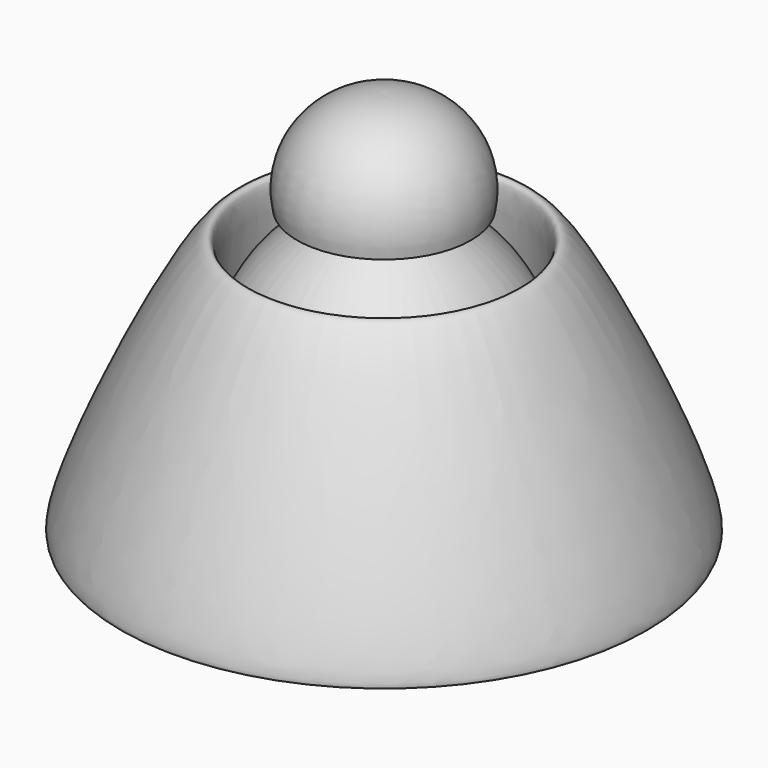
from build123d import *


with BuildPart() as f1:
    # F0 (on Front) → F1 (revolve)
    with BuildSketch(Plane.XZ):
        with BuildLine():
            ThreePointArc((6.9942506962, 68.7768086791), (10.7495988615, 61.5285137608), (17.1677079052, 56.4838834107))
            ThreePointArc((17.1677079052, 56.4838834107), (13.4650457136, 70.5907804083), (0, 76.1949568987))
            Line((0, 76.1949568987), (0, 0))
            Line((0, 0), (51.2911789119, 0))
            Line((51.2911789119, 0), (51.9270189106, 0))
            add(Edge.make_bspline(
                [(6.9942506962, 68.7768086791), (4.7976490485, 66.8852085739), (-1.4622309124, 61.4945226455), (22.5375060592, 50.4348407583), (29.137466164, 25.6066244777), (21.7981481204, 68.9863844594), (48.4621545756, 15.9049860845), (52.7049020357, 0.6840385156), (51.9270189106, 0)],
                knots=[0, 0, 0, 0, 0.1004234045, 0.2861868278, 0.4220226389, 0.5737912759, 0.814281633, 0.9698518721, 0.9698518721, 0.9698518721, 0.9698518721], degree=3))
        make_face()
    revolve(axis=Axis((0, 0, 38.0974784493), (0, 0, 1)))


solid = f1.part
